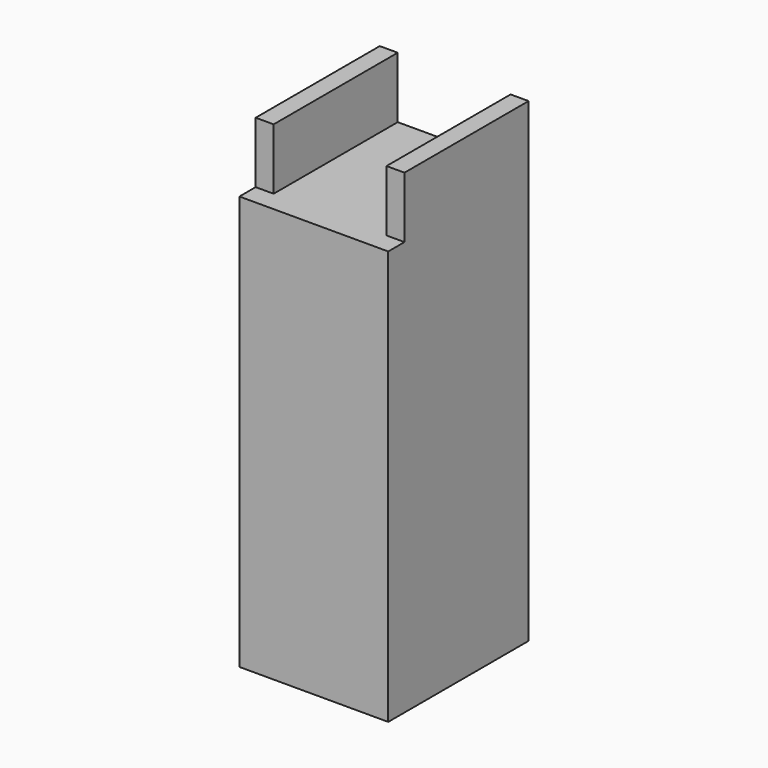
from build123d import *

# Parameters (mm, degrees)
F0_W     = 733
F0_H     = 764
F1_DEPTH = 2341
F2_W     = 556
F2_H     = 301
F3_DEPTH = 764.001
F5_DEPTH = 100


with BuildPart() as f1:
    # F0 (on Top) → F1 (new body)
    with BuildSketch(Plane.XY):
        with Locations((-366.5, -382)):
            Rectangle(F0_W, F0_H)
    extrude(amount=F1_DEPTH)

    # F2 (on face) → F3 (cut, through all)
    with BuildSketch(Plane.XZ.offset(764)):
        with Locations((-366.5, 2190.5)):
            Rectangle(F2_W, F2_H)
    extrude(amount=-F3_DEPTH, mode=Mode.SUBTRACT)

    # F4 (on face) → F5 (join)
    with BuildSketch(Plane.XZ.offset(764)):
        Polygon((-733, 2040), (-733, 0), (0, 0), (0, 2040), (-88.5, 2040), (-644.5, 2040), align=None)
    extrude(amount=F5_DEPTH)


solid = f1.part
